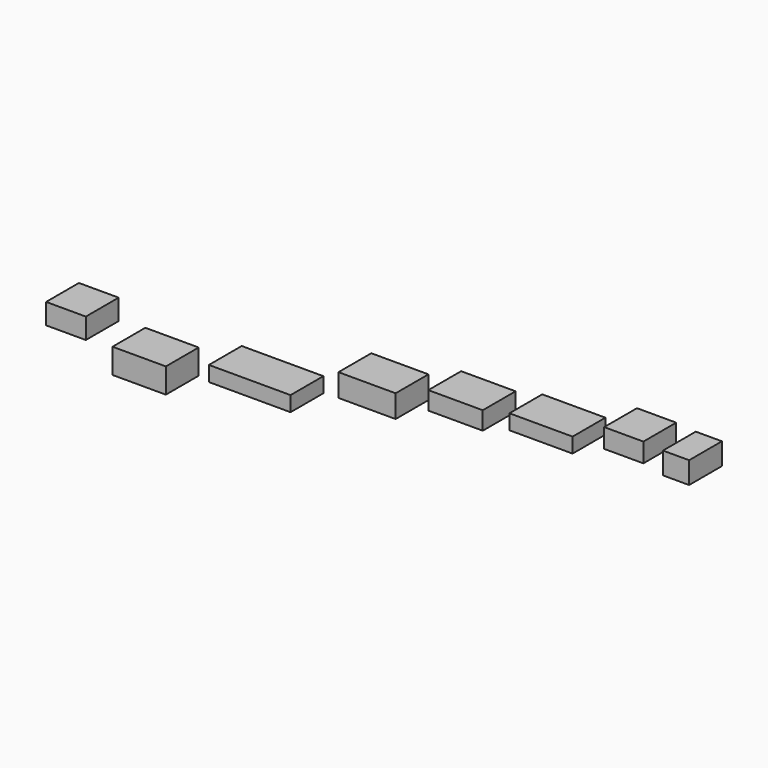
from build123d import *

# Parameters (mm, degrees)
F0_W     = 24.222955
F0_H     = 12.584899
F0_W_2   = 32.518492
F0_H_2   = 15.1675
F0_W_3   = 49.773205
F0_H_3   = 9.191025
F0_W_4   = 34.841244
F0_H_4   = 13.833336
F0_W_5   = 33.182137
F0_H_5   = 10.994062
F0_W_6   = 38.491286
F0_H_6   = 9.129628
F0_W_7   = 23.891137
F0_H_7   = 11.685223
F0_W_8   = 15.927419
F0_H_8   = 13.320498
F1_DEPTH = 25


with BuildPart() as f1:
    # F0 (on Front) → F1 (new body)
    with BuildSketch(Plane.XZ):
        with Locations((-167.072066, 64.257895)):
            Rectangle(F0_W, F0_H)
        with Locations((-122.442089, 52.088948)):
            Rectangle(F0_W_2, F0_H_2)
        with Locations((-55.082349, 64.399867)):
            Rectangle(F0_W_3, F0_H_3)
        with Locations((16.425157, 83.880935)):
            Rectangle(F0_W_4, F0_H_4)
        with Locations((70.346128, 93.473785)):
            Rectangle(F0_W_5, F0_H_5)
        with Locations((122.442093, 98.060228)):
            Rectangle(F0_W_6, F0_H_6)
        with Locations((172.878928, 108.140498)):
            Rectangle(F0_W_7, F0_H_7)
        with Locations((204.733781, 106.386099)):
            Rectangle(F0_W_8, F0_H_8)
    extrude(amount=F1_DEPTH)


solid = f1.part
